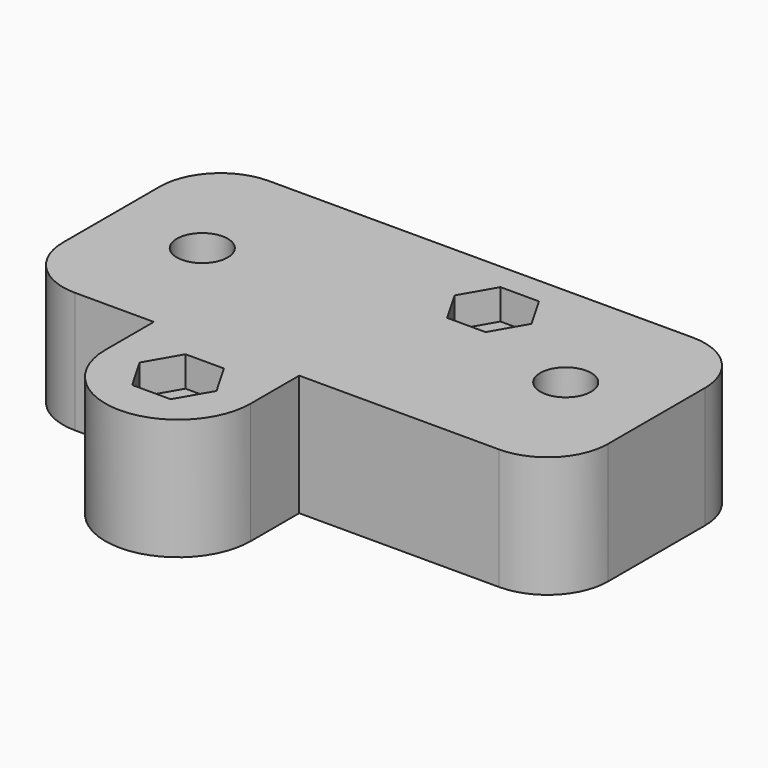
from build123d import *

# Parameters (mm, degrees)
SKETCH_R        = 2.1
SKETCH_R_2      = 1.5
PAD_DEPTH       = 10
POCKET_DEPTH    = 2.5
SKETCH002_R     = 2.1
SKETCH002_R_2   = 1.5
PAD001_DEPTH    = 2
SKETCH003_R     = 3.75
SKETCH003_R_2   = 2.1
POCKET001_DEPTH = 2.5
FILLET_R        = 1
FILLET001_R     = 5
SKETCH004_R     = 1.5
PAD002_DEPTH    = 1


with BuildPart() as part:
    # Sketch → Pad (new body)
    with BuildSketch(Plane.XY):
        with BuildLine():
            Line((-22.5, 10), (22.5, 10))
            Line((22.5, 10), (22.5, -10))
            Line((22.5, -10), (1, -10))
            Line((1, -15), (1, -10))
            ThreePointArc((-11, -15), (-5, -21), (1, -15))
            Line((-11, -15), (-11, -10))
            Line((-22.5, -10), (-11, -10))
            Line((-22.5, -10), (-22.5, 10))
        make_face()
        with Locations((-15, 0)):
            Circle(SKETCH_R, mode=Mode.SUBTRACT)
        with Locations((15, 0)):
            Circle(SKETCH_R, mode=Mode.SUBTRACT)
        with Locations((5, 5)):
            Circle(SKETCH_R_2, mode=Mode.SUBTRACT)
        with Locations((-5, -15)):
            Circle(SKETCH_R_2, mode=Mode.SUBTRACT)
    extrude(amount=PAD_DEPTH)

    # Sketch001 → Pocket (cut)
    with BuildSketch(Plane.XY.offset(10)):
        Polygon((6.587713, 2.25), (8.175426, 5), (6.587713, 7.75), (3.412287, 7.75), (1.824574, 5), (3.412287, 2.25), align=None)
        Polygon((-3.412287, -17.75), (-1.824574, -15), (-3.412287, -12.25), (-6.587713, -12.25), (-8.175426, -15), (-6.587713, -17.75), align=None)
    extrude(amount=-POCKET_DEPTH, mode=Mode.SUBTRACT)

    # Sketch002 → Pad001 (new body)
    with BuildSketch(Plane(origin=(0, 0, 0), x_dir=(1, 0, 0), z_dir=(0, 0, -1))):
        with Locations((5, -5)):
            Circle(SKETCH002_R)
        with Locations((5, -5)):
            Circle(SKETCH002_R_2, mode=Mode.SUBTRACT)
        with Locations((-5, 15)):
            Circle(SKETCH002_R)
        with Locations((-5, 15)):
            Circle(SKETCH002_R_2, mode=Mode.SUBTRACT)
    extrude(amount=PAD001_DEPTH)

    # Sketch003 → Pocket001 (cut)
    with BuildSketch(Plane(origin=(0, 0, 0), x_dir=(1, 0, 0), z_dir=(0, 0, -1))):
        with Locations((15, 0)):
            Circle(SKETCH003_R)
        with Locations((15, 0)):
            Circle(SKETCH003_R_2, mode=Mode.SUBTRACT)
        with Locations((-15, 0)):
            Circle(SKETCH003_R)
        with Locations((-15, 0)):
            Circle(SKETCH003_R_2, mode=Mode.SUBTRACT)
    extrude(amount=-POCKET001_DEPTH, mode=Mode.SUBTRACT)

    # Fillet
    fillet_edges = [part.edges().sort_by_distance(p)[0] for p in [
        (2.9, 5, 0),
        (-7.1, -15, 0),
    ]]
    fillet(fillet_edges, radius=FILLET_R)

    # Fillet001
    fillet001_edges = [part.edges().sort_by_distance(p)[0] for p in [
        (22.5, 10, 5),
        (22.5, -10, 5),
        (-22.5, 10, 5),
        (-22.5, -10, 5),
    ]]
    fillet(fillet001_edges, radius=FILLET001_R)

    # Sketch004 → Pad002 (new body)
    with BuildSketch(Plane.XY.offset(7.5)):
        with Locations((-5, -15)):
            Circle(SKETCH004_R)
        with Locations((5, 5)):
            Circle(SKETCH004_R)
    extrude(amount=-PAD002_DEPTH)


solid = part.part
